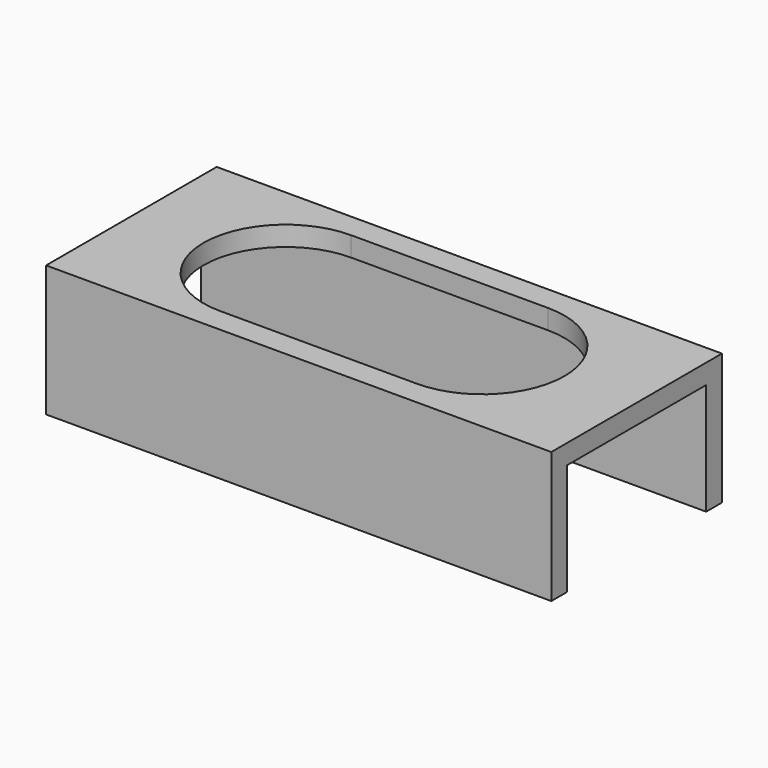
from build123d import *

# Parameters (mm, degrees)
F0_W     = 154
F0_H     = 40
F1_DEPTH = 32.5
F2_T     = -6
F4_DEPTH = 7


with BuildPart() as f1:
    # F0 (on Front) → F1 (new body, symmetric)
    with BuildSketch(Plane.XZ):
        Rectangle(F0_W, F0_H)
    extrude(amount=F1_DEPTH, both=True)

    # F2
    f2_openings = [f1.faces().sort_by_distance(p)[0] for p in [
        (0, 0, -20),
        (-77, 0, 0),
        (77, 0, 0),
    ]]
    offset(amount=F2_T, openings=f2_openings)

    # F3 (on face) → F4 (cut)
    with BuildSketch(Plane.XY.offset(20)):
        with BuildLine():
            Line((30, 25), (-30, 25))
            ThreePointArc((-30, 25), (-55, 0), (-30, -25))
            Line((-30, -25), (30, -25))
            ThreePointArc((30, -25), (55, 0), (30, 25))
        make_face()
    extrude(amount=-F4_DEPTH, mode=Mode.SUBTRACT)


solid = f1.part
